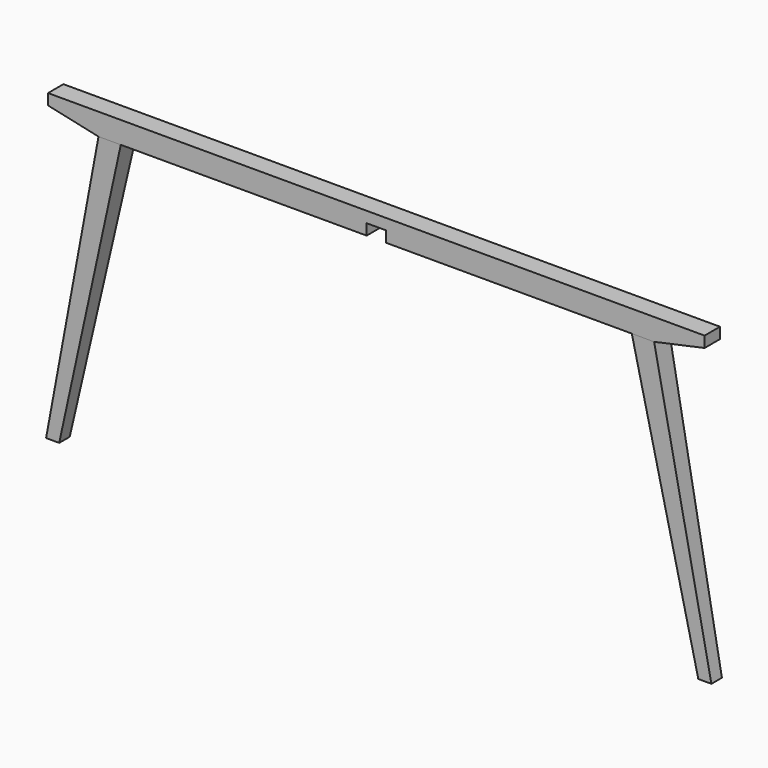
from build123d import *

# Parameters (mm, degrees)
F1_DEPTH = 44
F3_DEPTH = 904


with BuildPart() as f1:
    # F0 (on Front) → F1 (new body)
    with BuildSketch(Plane.XZ):
        Polygon((22, 0), (-22, 0), (-750, 0), (-750, -25), (-634.642857, -50), (-760, -700), (-730, -700), (-583.721499, -50), (-22, -50), (-22, -25), (0, -25), (22, -25), (22, -50), (583.721499, -50), (730, -700), (760, -700), (634.642857, -50), (750, -25), (750, 0), align=None)
    extrude(amount=F1_DEPTH)

    # F2 (on Right) → F3 (cut, symmetric)
    with BuildSketch(Plane.YZ):
        Polygon((0, -700), (0, -50), (-7, -700), align=None)
        Polygon((-44, -700), (-37, -700), (-44, -50), align=None)
    extrude(amount=F3_DEPTH, both=True, mode=Mode.SUBTRACT)


solid = f1.part
